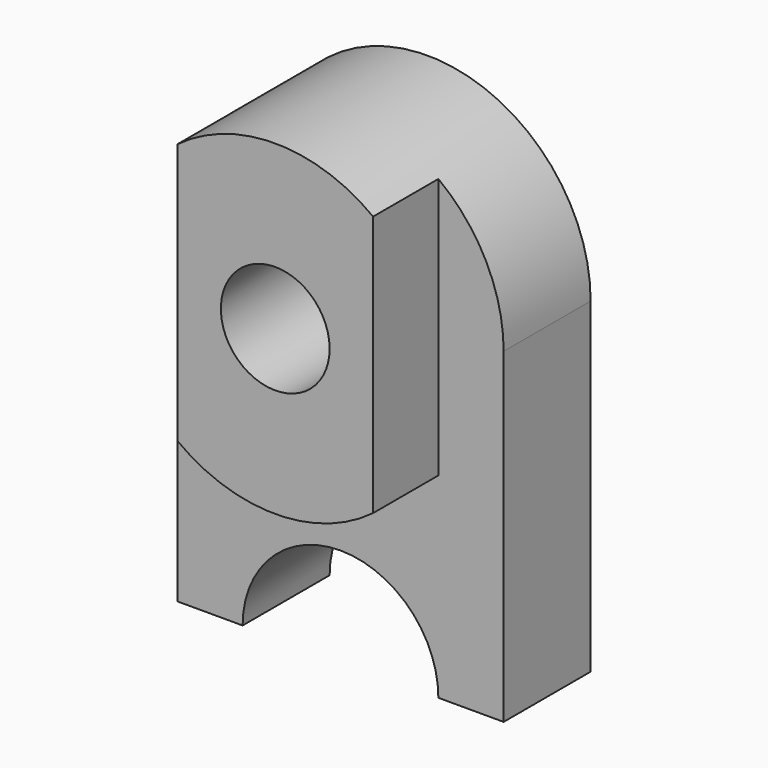
from build123d import *

# Parameters (mm, degrees)
F0_W     = 600
F0_H     = 600
F1_DEPTH = 200
F3_DEPTH = 200.001
F5_DEPTH = 150
F6_R     = 100
F7_DEPTH = 350.001


with BuildPart() as f1:
    # F0 (on Front) → F1 (new body)
    with BuildSketch(Plane.XZ):
        Rectangle(F0_W, F0_H)
        with BuildLine():
            Line((-300, 300), (300, 300))
            ThreePointArc((300, 300), (0, 600), (-300, 300))
        make_face()
        with BuildLine():
            Line((-300, 300), (300, 300))
            ThreePointArc((300, 300), (0, 600), (-300, 300))
        make_face()
    extrude(amount=F1_DEPTH)

    # F2 (on face) → F3 (cut, through all)
    with BuildSketch(Plane(origin=(0, 0, 0), x_dir=(-1, 0, 0), z_dir=(0, 1, 0))):
        with BuildLine():
            Line((-180, -300), (180, -300))
            ThreePointArc((180, -300), (0, -120), (-180, -300))
        make_face()
    extrude(amount=-F3_DEPTH, mode=Mode.SUBTRACT)

    # F4 (on face) → F5 (join)
    with BuildSketch(Plane.XZ.offset(200)):
        with BuildLine():
            Line((180, 60), (180, 540))
            ThreePointArc((180, 540), (0, 600), (-180, 540))
            Line((-180, 540), (-180, 60))
            ThreePointArc((-180, 60), (0, 0), (180, 60))
        make_face()
    extrude(amount=F5_DEPTH)

    # F6 (on face) → F7 (cut, through all)
    with BuildSketch(Plane.XZ.offset(350)):
        with Locations((0, 300)):
            Circle(F6_R)
        with Locations((0, 300)):
            Circle(F6_R)
    extrude(amount=-F7_DEPTH, mode=Mode.SUBTRACT)


solid = f1.part
